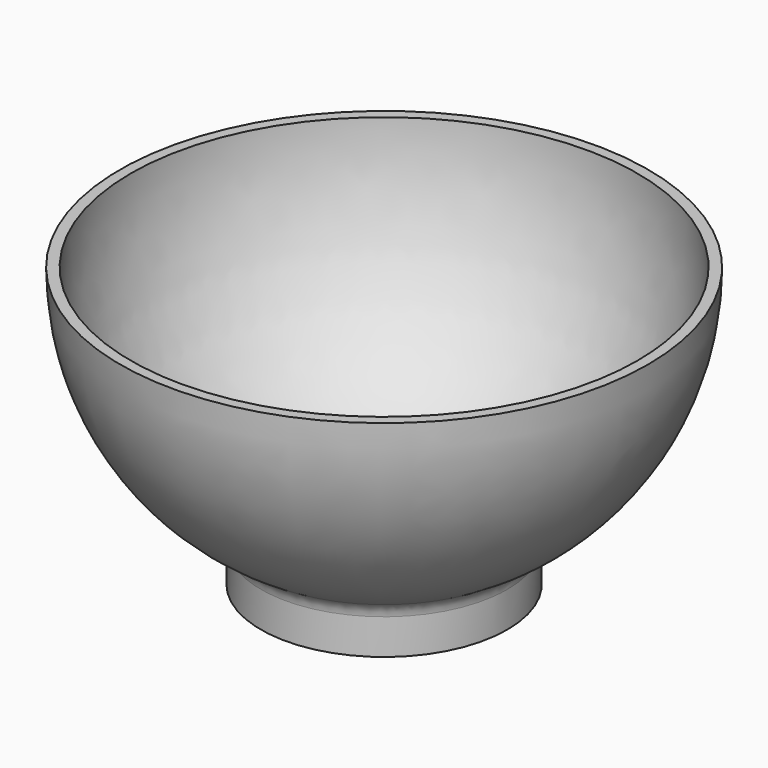
from build123d import *

# Parameters (mm, degrees)
F2_R = 5
F3_T = -3


with BuildPart() as f1:
    # F0 (on Front) → F1 (revolve)
    with BuildSketch(Plane.XZ):
        with BuildLine():
            Line((0, 79.332496), (0, 0))
            Line((0, 0), (35, 0))
            Line((35, 0), (35, 13))
            ThreePointArc((35, 13), (64.226163, 40.602662), (75, 79.332496))
            Line((75, 79.332496), (0, 79.332496))
        make_face()
    revolve(axis=Axis((0, 0, 39.666248), (0, 0, 1)))

    # F2
    f2_edges = [f1.edges().sort_by_distance(p)[0] for p in [
        (-35, 0, 13),
    ]]
    fillet(f2_edges, radius=F2_R)

    # F3
    f3_openings = [f1.faces().sort_by_distance(p)[0] for p in [
        (0, 0, 79.332496),
    ]]
    offset(amount=F3_T, openings=f3_openings)


solid = f1.part
